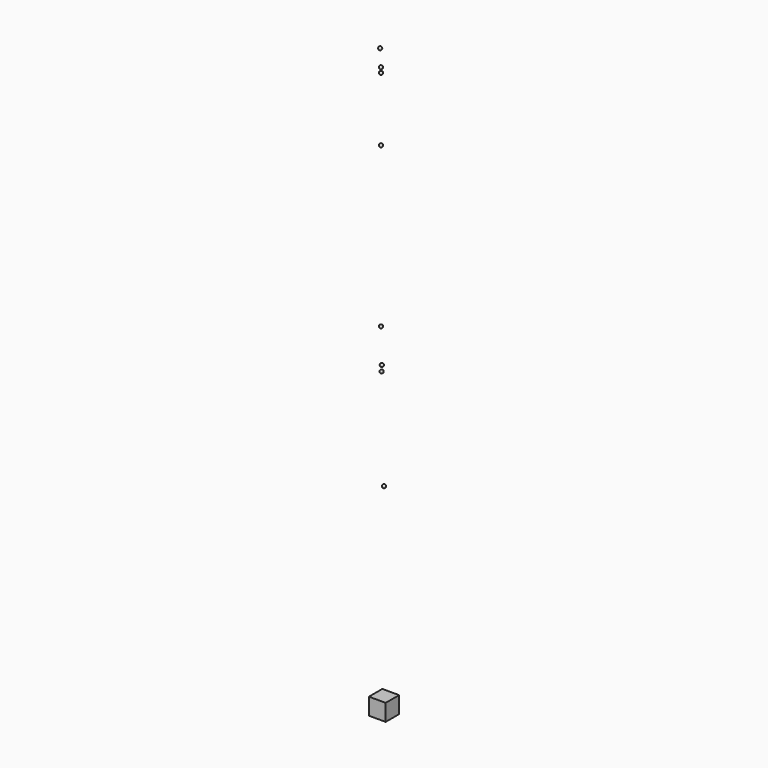
from build123d import *

# Parameters (mm, degrees)
SOURCEBOX_W     = 1000
SOURCEBOX_H     = 1000
SOURCEBOX_DEPTH = 1000


with BuildPart() as sourcebox:
    # SourceBox → SourceBox (new body)
    with BuildSketch(Plane(origin=(-500, -500, 0), x_dir=(1, 0, 0), z_dir=(0, 0, 1))):
        with Locations((500, 500)):
            Rectangle(SOURCEBOX_W, SOURCEBOX_H)
    extrude(amount=SOURCEBOX_DEPTH)


with BuildPart() as m1:
    # M1 → M1 (revolve)
    with BuildSketch(Plane(origin=(0, 0, 12000), x_dir=(1, 0, 0), z_dir=(0, -1, 0))):
        with BuildLine():
            ThreePointArc((0, -100), (100, 0), (0, 100))
            Line((0, 100), (0, -100))
        make_face()
    revolve(axis=Axis((0, 0, 12000), (0, 0, 1)))


with BuildPart() as obj1:
    # obj1 → obj1 (revolve)
    with BuildSketch(Plane(origin=(-145.891634, 3.172693, 17969.508044), x_dir=(1, 0, 0), z_dir=(0, -1, 0))):
        with BuildLine():
            ThreePointArc((0, -100), (100, 0), (0, 100))
            Line((0, 100), (0, -100))
        make_face()
    revolve(axis=Axis((-145.891634, 3.172693, 17969.508044), (0, 0, 1)))


with BuildPart() as obj2:
    # obj2 → obj2 (revolve)
    with BuildSketch(Plane(origin=(-153.922722, 30, 18298.119386), x_dir=(1, 0, 0), z_dir=(0, -1, 0))):
        with BuildLine():
            ThreePointArc((0, -100), (100, 0), (0, 100))
            Line((0, 100), (0, -100))
        make_face()
    revolve(axis=Axis((-153.922722, 30, 18298.119386), (0, 0, 1)))


with BuildPart() as m3:
    # M3 → M3 (revolve)
    with BuildSketch(Plane(origin=(-202.787079, 30, 20297.522365), x_dir=(1, 0, 0), z_dir=(0, -1, 0))):
        with BuildLine():
            ThreePointArc((0, -100), (100, 0), (0, 100))
            Line((0, 100), (0, -100))
        make_face()
    revolve(axis=Axis((-202.787079, 30, 20297.522365), (0, 0, 1)))


with BuildPart() as obj3:
    # obj3 → obj3 (revolve)
    with BuildSketch(Plane(origin=(-202.787079, 30, 29797.522365), x_dir=(1, 0, 0), z_dir=(0, -1, 0))):
        with BuildLine():
            ThreePointArc((0, -100), (100, 0), (0, 100))
            Line((0, 100), (0, -100))
        make_face()
    revolve(axis=Axis((-202.787079, 30, 29797.522365), (0, 0, 1)))


with BuildPart() as obj4:
    # obj4 → obj4 (revolve)
    with BuildSketch(Plane(origin=(-202.787079, 30, 33597.522365), x_dir=(1, 0, 0), z_dir=(0, -1, 0))):
        with BuildLine():
            ThreePointArc((0, -100), (100, 0), (0, 100))
            Line((0, 100), (0, -100))
        make_face()
    revolve(axis=Axis((-202.787079, 30, 33597.522365), (0, 0, 1)))


with BuildPart() as obj5:
    # obj5 → obj5 (revolve)
    with BuildSketch(Plane(origin=(-202.787079, 22.670346, 33897.432812), x_dir=(1, 0, 0), z_dir=(0, -1, 0))):
        with BuildLine():
            ThreePointArc((0, -100), (100, 0), (0, 100))
            Line((0, 100), (0, -100))
        make_face()
    revolve(axis=Axis((-202.787079, 22.670346, 33897.432812), (0, 0, 1)))


with BuildPart() as obj6:
    # obj6 → obj6 (revolve)
    with BuildSketch(Plane(origin=(-227.219257, -1.754539, 34896.835881), x_dir=(1, 0, 0), z_dir=(0, -1, 0))):
        with BuildLine():
            ThreePointArc((0, -100), (100, 0), (0, 100))
            Line((0, 100), (0, -100))
        make_face()
    revolve(axis=Axis((-227.219257, -1.754539, 34896.835881), (0, 0, 1)))


solid = Compound([sourcebox.part, m1.part, obj1.part, obj2.part, m3.part, obj3.part, obj4.part, obj5.part, obj6.part])
